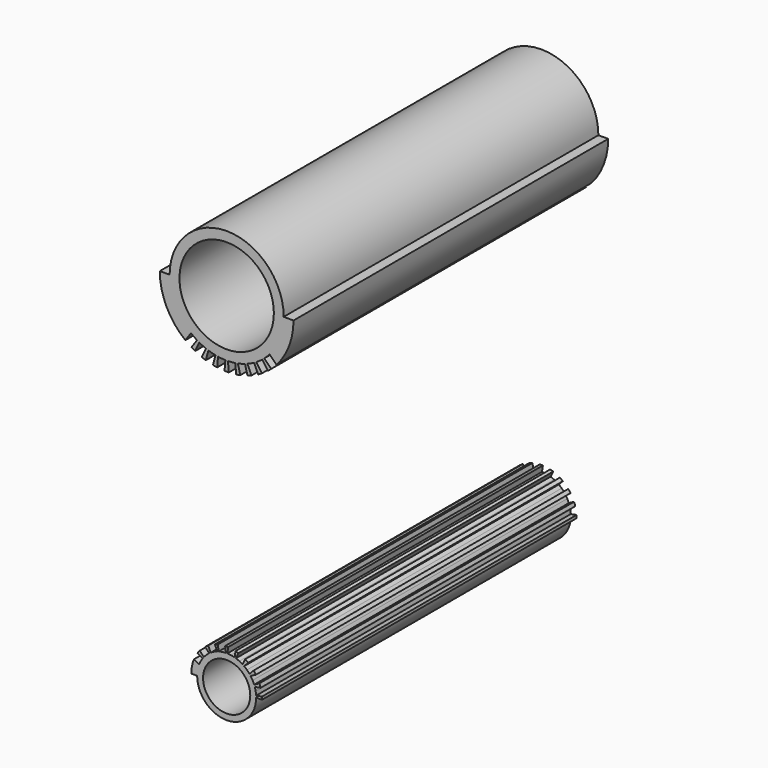
from build123d import *

# Parameters (mm, degrees)
F1_R     = 24
F1_R_2   = 12
F2_DEPTH = 100


with BuildPart() as f2:
    # F1 (on offset) → F2 (new body, symmetric)
    with BuildSketch(Plane.XZ.offset(-100)):
        with BuildLine():
            Line((-21.007832, -26.733331), (-18.134823, -22.630249))
            ThreePointArc((-18.134823, -22.630249), (-17.393371, -23.204971), (-16.633717, -23.755409))
            ThreePointArc((-16.633717, -23.755409), (-15.856656, -24.280989), (-15.063003, -24.781161))
            ThreePointArc((-15.063003, -24.781161), (-14.5, -25.114737), (-13.929613, -25.435524))
            ThreePointArc((-13.929613, -25.435524), (-13.099625, -25.872762), (-12.25593, -26.282926))
            ThreePointArc((-12.25593, -26.282926), (-11.399409, -26.665586), (-10.530959, -27.020342))
            ThreePointArc((-10.530959, -27.020342), (-9.918584, -27.251086), (-9.301159, -27.467953))
            ThreePointArc((-9.301159, -27.467953), (-8.407855, -27.754423), (-7.505752, -28.011849))
            ThreePointArc((-7.505752, -28.011849), (-6.595796, -28.239962), (-5.678937, -28.438525))
            ThreePointArc((-5.678937, -28.438525), (-5.035797, -28.559425), (-4.390093, -28.665782))
            ThreePointArc((-4.390093, -28.665782), (-3.460616, -28.792779), (-2.527517, -28.889646))
            ThreePointArc((-2.527517, -28.889646), (-1.591773, -28.956282), (-0.654363, -28.992616))
            ThreePointArc((-0.654363, -28.992616), (0, -29), (0.654363, -28.992616))
            ThreePointArc((0.654363, -28.992616), (1.591773, -28.956282), (2.527517, -28.889646))
            ThreePointArc((2.527517, -28.889646), (3.460616, -28.792779), (4.390093, -28.665782))
            ThreePointArc((4.390093, -28.665782), (5.035797, -28.559425), (5.678937, -28.438525))
            ThreePointArc((5.678937, -28.438525), (6.595796, -28.239962), (7.505752, -28.011849))
            ThreePointArc((7.505752, -28.011849), (8.407855, -27.754423), (9.301159, -27.467953))
            ThreePointArc((9.301159, -27.467953), (9.918584, -27.251086), (10.530959, -27.020342))
            ThreePointArc((10.530959, -27.020342), (11.399409, -26.665586), (12.25593, -26.282926))
            ThreePointArc((12.25593, -26.282926), (13.099625, -25.872762), (13.929613, -25.435524))
            ThreePointArc((13.929613, -25.435524), (14.5, -25.114737), (15.063003, -24.781161))
            ThreePointArc((15.063003, -24.781161), (15.856656, -24.280989), (16.633717, -23.755409))
            ThreePointArc((16.633717, -23.755409), (17.393371, -23.204971), (18.134823, -22.630249))
            ThreePointArc((18.134823, -22.630249), (18.640841, -22.215289), (19.137366, -21.789016))
            ThreePointArc((19.137366, -21.789016), (19.832108, -21.158627), (20.506097, -20.506097))
            ThreePointArc((20.506097, -20.506097), (21.158627, -19.832108), (21.789016, -19.137366))
            Line((21.789016, -19.137366), (25.33087, -22.67922))
            ThreePointArc((25.33087, -22.67922), (31.758854, -12.139819), (34, 0))
            Line((34, 0), (29, 0))
            ThreePointArc((29, 0), (0, 29), (-29, 0))
            Line((-29, 0), (-34, 0))
            ThreePointArc((-34, 0), (-30.579947, -14.86159), (-21.007832, -26.733331))
        make_face()
        Circle(F1_R, mode=Mode.SUBTRACT)
        with BuildLine():
            ThreePointArc((-13.929613, -25.435524), (-14.5, -25.114737), (-15.063003, -24.781161))
            Line((-15.063003, -24.781161), (-17.936012, -28.884243))
            ThreePointArc((-17.936012, -28.884243), (-17, -29.444864), (-16.046482, -29.975163))
            Line((-16.046482, -29.975163), (-13.929613, -25.435524))
        make_face()
        with BuildLine():
            ThreePointArc((-9.301159, -27.467953), (-9.918584, -27.251086), (-10.530959, -27.020342))
            Line((-10.530959, -27.020342), (-12.647828, -31.559982))
            ThreePointArc((-12.647828, -31.559982), (-11.628685, -31.949549), (-10.597567, -32.306216))
            Line((-10.597567, -32.306216), (-9.301159, -27.467953))
        make_face()
        with BuildLine():
            ThreePointArc((-4.390093, -28.665782), (-5.035797, -28.559425), (-5.678937, -28.438525))
            Line((-5.678937, -28.438525), (-6.975345, -33.276787))
            ThreePointArc((-6.975345, -33.276787), (-5.904038, -33.483464), (-4.826651, -33.65566))
            Line((-4.826651, -33.65566), (-4.390093, -28.665782))
        make_face()
        with BuildLine():
            ThreePointArc((0.654363, -28.992616), (0, -29), (-0.654363, -28.992616))
            Line((-0.654363, -28.992616), (-1.090921, -33.982494))
            ThreePointArc((-1.090921, -33.982494), (0, -34), (1.090921, -33.982494))
            Line((1.090921, -33.982494), (0.654363, -28.992616))
        make_face()
        with BuildLine():
            ThreePointArc((5.678937, -28.438525), (5.035797, -28.559425), (4.390093, -28.665782))
            Line((4.390093, -28.665782), (4.826651, -33.65566))
            ThreePointArc((4.826651, -33.65566), (5.904038, -33.483464), (6.975345, -33.276787))
            Line((6.975345, -33.276787), (5.678937, -28.438525))
        make_face()
        with BuildLine():
            Line((12.647828, -31.559982), (10.530959, -27.020342))
            ThreePointArc((10.530959, -27.020342), (9.918584, -27.251086), (9.301159, -27.467953))
            Line((9.301159, -27.467953), (10.597567, -32.306216))
            ThreePointArc((10.597567, -32.306216), (11.628685, -31.949549), (12.647828, -31.559982))
        make_face()
        with BuildLine():
            Line((17.936012, -28.884243), (15.063003, -24.781161))
            ThreePointArc((15.063003, -24.781161), (14.5, -25.114737), (13.929613, -25.435524))
            Line((13.929613, -25.435524), (16.046482, -29.975163))
            ThreePointArc((16.046482, -29.975163), (17, -29.444864), (17.936012, -28.884243))
        make_face()
        with BuildLine():
            Line((22.67922, -25.33087), (19.137366, -21.789016))
            ThreePointArc((19.137366, -21.789016), (18.640841, -22.215289), (18.134823, -22.630249))
            Line((18.134823, -22.630249), (21.007832, -26.733331))
            ThreePointArc((21.007832, -26.733331), (21.854779, -26.045511), (22.67922, -25.33087))
        make_face()
        with BuildLine():
            Line((-18, -175), (-15, -175))
            ThreePointArc((-15, -175), (-14.740809, -172.223573), (-13.972194, -169.543096))
            Line((-13.972194, -169.543096), (-16.625913, -168.102245))
            ThreePointArc((-16.625913, -168.102245), (-17.653136, -171.483356), (-18, -175))
        make_face()
        with BuildLine():
            Line((-14.835892, -164.807047), (-12.182037, -166.247973))
            ThreePointArc((-12.182037, -166.247973), (-11.898051, -165.865648), (-11.60207, -165.492531))
            Line((-11.60207, -165.492531), (-13.680659, -163.302155))
            ThreePointArc((-13.680659, -163.302155), (-14.278116, -164.03937), (-14.835892, -164.807047))
        make_face()
        with BuildLine():
            ThreePointArc((-8.88128, -162.911871), (-8.493048, -162.636015), (-8.096255, -162.372623))
            Line((-8.096255, -162.372623), (-9.396247, -159.647132))
            ThreePointArc((-9.396247, -159.647132), (-10.192275, -160.163641), (-10.959976, -160.721383))
            Line((-10.959976, -160.721383), (-8.88128, -162.911871))
        make_face()
        with BuildLine():
            ThreePointArc((13.972194, -169.543096), (13.603821, -168.680503), (13.182257, -167.842619))
            ThreePointArc((13.182257, -167.842619), (12.707186, -167.02959), (12.182037, -166.247973))
            ThreePointArc((12.182037, -166.247973), (11.898051, -165.865648), (11.60207, -165.492531))
            ThreePointArc((11.60207, -165.492531), (10.985171, -164.785989), (10.325319, -164.119384))
            ThreePointArc((10.325319, -164.119384), (9.62226, -163.492954), (8.88128, -162.911871))
            ThreePointArc((8.88128, -162.911871), (8.493048, -162.636015), (8.096255, -162.372623))
            ThreePointArc((8.096255, -162.372623), (7.291215, -161.891294), (6.457666, -161.461221))
            ThreePointArc((6.457666, -161.461221), (5.59544, -161.082707), (4.711162, -160.75904))
            ThreePointArc((4.711162, -160.75904), (4.382042, -160.654349), (4.050599, -160.557263))
            ThreePointArc((4.050599, -160.557263), (3.140009, -160.332337), (2.217141, -160.164762))
            ThreePointArc((2.217141, -160.164762), (1.281923, -160.054878), (0.341653, -160.003891))
            ThreePointArc((0.341653, -160.003891), (0, -160), (-0.341653, -160.003891))
            ThreePointArc((-0.341653, -160.003891), (-1.281923, -160.054878), (-2.217141, -160.164762))
            ThreePointArc((-2.217141, -160.164762), (-3.140009, -160.332337), (-4.050599, -160.557263))
            ThreePointArc((-4.050599, -160.557263), (-4.382042, -160.654349), (-4.711162, -160.75904))
            ThreePointArc((-4.711162, -160.75904), (-5.59544, -161.082707), (-6.457666, -161.461221))
            ThreePointArc((-6.457666, -161.461221), (-7.291215, -161.891294), (-8.096255, -162.372623))
            ThreePointArc((-8.096255, -162.372623), (-8.493048, -162.636015), (-8.88128, -162.911871))
            ThreePointArc((-8.88128, -162.911871), (-9.62226, -163.492954), (-10.325319, -164.119384))
            ThreePointArc((-10.325319, -164.119384), (-10.985171, -164.785989), (-11.60207, -165.492531))
            ThreePointArc((-11.60207, -165.492531), (-11.898051, -165.865648), (-12.182037, -166.247973))
            ThreePointArc((-12.182037, -166.247973), (-12.707186, -167.02959), (-13.182257, -167.842619))
            ThreePointArc((-13.182257, -167.842619), (-13.603821, -168.680503), (-13.972194, -169.543096))
            ThreePointArc((-13.972194, -169.543096), (-14.740809, -172.223573), (-15, -175))
            ThreePointArc((-15, -175), (0, -190), (15, -175))
            ThreePointArc((15, -175), (14.993654, -174.563726), (14.974622, -174.127821))
            ThreePointArc((14.974622, -174.127821), (14.890835, -173.193613), (14.748824, -172.266467))
            ThreePointArc((14.748824, -172.266467), (14.548244, -171.346426), (14.290331, -170.440784))
            ThreePointArc((14.290331, -170.440784), (14.138389, -169.989415), (13.972194, -169.543096))
        make_face()
        with Locations((0, -175)):
            Circle(F1_R_2, mode=Mode.SUBTRACT)
        with BuildLine():
            ThreePointArc((-4.711162, -160.75904), (-4.382042, -160.654349), (-4.050599, -160.557263))
            Line((-4.050599, -160.557263), (-4.496932, -157.570783))
            ThreePointArc((-4.496932, -157.570783), (-5.259166, -157.785437), (-6.011222, -158.033409))
            Line((-6.011222, -158.033409), (-4.711162, -160.75904))
        make_face()
        with BuildLine():
            ThreePointArc((-0.341653, -160.003891), (0, -160), (0.341653, -160.003891))
            Line((0.341653, -160.003891), (0.788009, -157.017257))
            ThreePointArc((0.788009, -157.017257), (0.394099, -157.004315), (0, -157))
            ThreePointArc((0, -157), (-0.394099, -157.004315), (-0.788009, -157.017257))
            Line((-0.788009, -157.017257), (-0.341653, -160.003891))
        make_face()
        with BuildLine():
            Line((4.496932, -157.570783), (4.050599, -160.557263))
            ThreePointArc((4.050599, -160.557263), (4.382042, -160.654349), (4.711162, -160.75904))
            Line((4.711162, -160.75904), (6.011222, -158.033409))
            ThreePointArc((6.011222, -158.033409), (5.259166, -157.785437), (4.496932, -157.570783))
        make_face()
        with BuildLine():
            ThreePointArc((8.096255, -162.372623), (8.493048, -162.636015), (8.88128, -162.911871))
            Line((8.88128, -162.911871), (10.959976, -160.721383))
            ThreePointArc((10.959976, -160.721383), (10.192275, -160.163641), (9.396247, -159.647132))
            Line((9.396247, -159.647132), (8.096255, -162.372623))
        make_face()
        with BuildLine():
            ThreePointArc((11.60207, -165.492531), (11.898051, -165.865648), (12.182037, -166.247973))
            Line((12.182037, -166.247973), (14.835892, -164.807047))
            ThreePointArc((14.835892, -164.807047), (14.278116, -164.03937), (13.680659, -163.302155))
            Line((13.680659, -163.302155), (11.60207, -165.492531))
        make_face()
        with BuildLine():
            Line((16.625913, -168.102245), (13.972194, -169.543096))
            ThreePointArc((13.972194, -169.543096), (14.138389, -169.989415), (14.290331, -170.440784))
            Line((14.290331, -170.440784), (17.259568, -169.890468))
            ThreePointArc((17.259568, -169.890468), (16.966316, -168.988002), (16.625913, -168.102245))
        make_face()
        with BuildLine():
            Line((17.943706, -173.577534), (14.974622, -174.127821))
            ThreePointArc((14.974622, -174.127821), (14.993654, -174.563726), (15, -175))
            Line((15, -175), (18, -175))
            ThreePointArc((18, -175), (17.985921, -174.28821), (17.943706, -173.577534))
        make_face()
    extrude(amount=F2_DEPTH, both=True)


solid = f2.part
